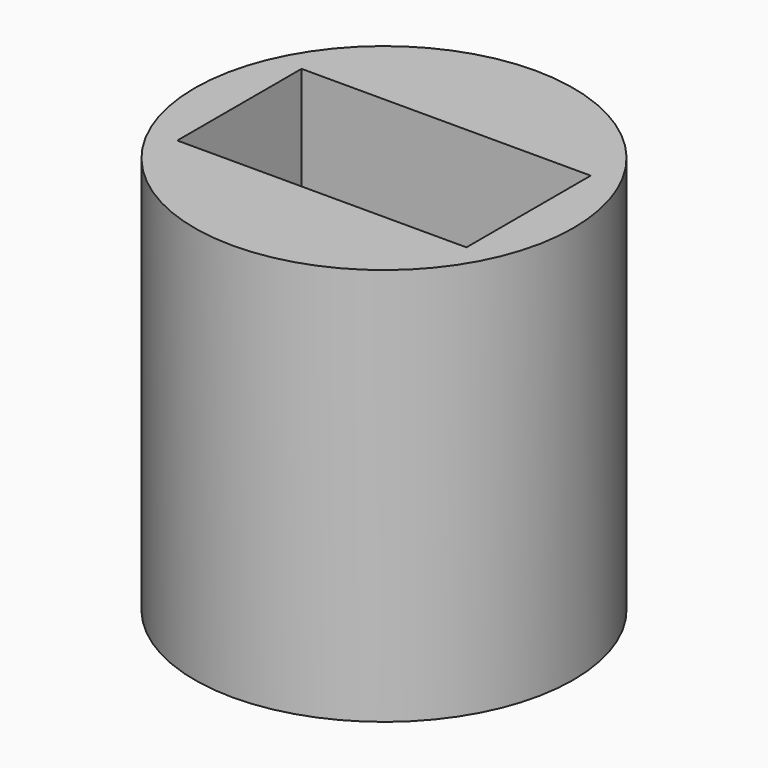
from build123d import *

# Parameters (mm, degrees)
F0_R     = 15
F0_W     = 22.9
F0_H     = 12.3
F1_DEPTH = 28.5
F2_R     = 15
F3_DEPTH = 3


with BuildPart() as f1:
    # F0 (on Top) → F1 (new body)
    with BuildSketch(Plane.XY):
        Circle(F0_R)
        Rectangle(F0_W, F0_H, mode=Mode.SUBTRACT)
    extrude(amount=F1_DEPTH)

    # F2 (on face) → F3 (join)
    with BuildSketch(Plane(origin=(0, 0, 0), x_dir=(1, 0, 0), z_dir=(0, 0, -1))):
        Circle(F2_R)
    extrude(amount=F3_DEPTH)


solid = f1.part
